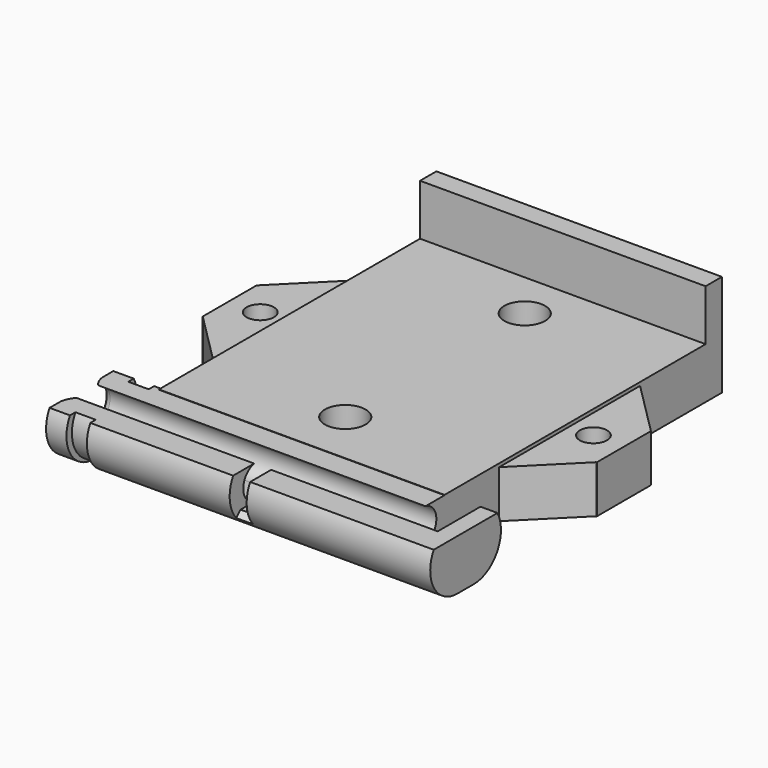
from build123d import *

# Parameters (mm, degrees)
CYLINDER008_R           = 3
CYLINDER008_DEPTH       = 4
CYLINDER009_R           = 2
CYLINDER009_DEPTH       = 11.5
CYLINDER007_R           = 3
CYLINDER007_DEPTH       = 4
CYLINDER006_R           = 2
CYLINDER006_DEPTH       = 11.5
CYLINDER004_R           = 2
CYLINDER004_DEPTH       = 10
CYLINDER005_R           = 3
CYLINDER005_DEPTH       = 7
CYLINDER003_R           = 2
CYLINDER003_DEPTH       = 10
CYLINDER_R              = 3
CYLINDER_DEPTH          = 7
CYLINDER002_R           = 5
CYLINDER002_DEPTH       = 56.5
CYLINDER002_PITCH_ANGLE = 90
BOX011_W                = 42
BOX011_H                = 5
BOX011_DEPTH            = 5
BOX007_W                = 42
BOX007_H                = 48
BOX007_DEPTH            = 7.5
BOX008_W                = 42
BOX008_H                = 3
BOX008_DEPTH            = 15
BOX015_W                = 10
BOX015_H                = 10
BOX015_DEPTH            = 7
BOX014_W                = 10
BOX014_H                = 10
BOX014_DEPTH            = 7
BOX020_W                = 2.5
BOX020_H                = 7.5
BOX020_DEPTH            = 10
BOX020_ROLL_ANGLE       = 45
BOX005_W                = 2.5
BOX005_H                = 5
BOX005_DEPTH            = 10
BOX018_W                = 5
BOX018_H                = 5
BOX018_DEPTH            = 10
BOX019_W                = 58
BOX019_H                = 13
BOX019_DEPTH            = 10
CYLINDER021_W           = 5
CYLINDER021_H           = 3
CYLINDER021_ANGLE       = 180
CYLINDER019_W           = 5
CYLINDER019_H           = 3
CYLINDER019_ANGLE       = 180
CYLINDER017_W           = 2.5
CYLINDER017_H           = 54
CYLINDER017_ANGLE       = 180
CYLINDER016_W           = 5
CYLINDER016_H           = 56.5
CYLINDER016_ANGLE       = 180
BOX017_W                = 5
BOX017_H                = 3
BOX017_DEPTH            = 54
BOX016_W                = 10
BOX016_H                = 3
BOX016_DEPTH            = 56.5
CYLINDER020_W           = 5
CYLINDER020_H           = 3
CYLINDER020_ANGLE       = 180
CYLINDER018_W           = 5
CYLINDER018_H           = 3
CYLINDER018_ANGLE       = 180
CYLINDER014_W           = 2.5
CYLINDER014_H           = 54
CYLINDER014_ANGLE       = 180
CYLINDER015_W           = 5
CYLINDER015_H           = 56.5
CYLINDER015_ANGLE       = 180
FUSION007_PITCH_ANGLE   = 90
FILLET_R                = 1
CHAMFER003_SIZE         = 7.95


with BuildPart() as cylinder011:
    # Cylinder008 → Cylinder008 (new body)
    with BuildSketch(Plane.XY.offset(7.5)):
        Circle(CYLINDER008_R)
    extrude(amount=CYLINDER008_DEPTH)


with BuildPart() as bolt_hole4:
    # Cylinder009 → Cylinder009 (new body)
    with BuildSketch(Plane.XY):
        Circle(CYLINDER009_R)
    extrude(amount=CYLINDER009_DEPTH)

    # Fusion004: union Cylinder011
    add(cylinder011.part)


with BuildPart() as bolt_hole4_1:
    # Fusion004 placement: moved
    add(bolt_hole4.part.moved(Location((28, 45, -9))))


with BuildPart() as cylinder008:
    # Cylinder007 → Cylinder007 (new body)
    with BuildSketch(Plane.XY.offset(7.5)):
        Circle(CYLINDER007_R)
    extrude(amount=CYLINDER007_DEPTH)


with BuildPart() as bolt_hole3:
    # Cylinder006 → Cylinder006 (new body)
    with BuildSketch(Plane.XY):
        Circle(CYLINDER006_R)
    extrude(amount=CYLINDER006_DEPTH)

    # Fusion003: union Cylinder008
    add(cylinder008.part)


with BuildPart() as bolt_hole3_1:
    # Fusion003 placement: moved
    add(bolt_hole3.part.moved(Location((28, 12, -9))))


with BuildPart() as cylinder006:
    # Cylinder004 → Cylinder004 (new body)
    with BuildSketch(Plane.XY):
        Circle(CYLINDER004_R)
    extrude(amount=CYLINDER004_DEPTH)


with BuildPart() as bolt_hole2:
    # Cylinder005 → Cylinder005 (new body)
    with BuildSketch(Plane.XY):
        Circle(CYLINDER005_R)
    extrude(amount=CYLINDER005_DEPTH)

    # Fusion002: union Cylinder006
    add(cylinder006.part)


with BuildPart() as bolt_hole2_1:
    # Fusion002 placement: moved
    add(bolt_hole2.part.moved(Location((52.5, 27, -8))))


with BuildPart() as cylinder001:
    # Cylinder003 → Cylinder003 (new body)
    with BuildSketch(Plane.XY):
        Circle(CYLINDER003_R)
    extrude(amount=CYLINDER003_DEPTH)


with BuildPart() as bolt_hole1:
    # Cylinder → Cylinder (new body)
    with BuildSketch(Plane.XY):
        Circle(CYLINDER_R)
    extrude(amount=CYLINDER_DEPTH)

    # Fusion001: union Cylinder001
    add(cylinder001.part)


with BuildPart() as bolt_hole1_1:
    # Fusion001 placement: moved
    add(bolt_hole1.part.moved(Location((3.5, 27, -8))))


with BuildPart() as cable_tunnel_outer_shell:
    # Cylinder002 → Cylinder002 (new body)
    with BuildSketch(Plane.XY):
        Circle(CYLINDER002_R)
    extrude(amount=CYLINDER002_DEPTH)


with BuildPart() as cable_tunnel_outer_shell_1:
    # Cylinder002 pitch: moved
    add(cable_tunnel_outer_shell.part.rotate(Axis((0, 0, 0), (0, 1, 0)), CYLINDER002_PITCH_ANGLE))


with BuildPart() as cable_tunnel_outer_shell_2:
    # Cylinder002 placement: moved
    add(cable_tunnel_outer_shell_1.part)


with BuildPart() as fill_cut1:
    # Box011 → Box011 (new body)
    with BuildSketch(Plane(origin=(7, 0, -5), x_dir=(1, 0, 0), z_dir=(0, 0, 1))):
        with Locations((21, 2.5)):
            Rectangle(BOX011_W, BOX011_H)
    extrude(amount=BOX011_DEPTH)

    # Cut: cut cable-tunnel-outer-shell
    add(cable_tunnel_outer_shell_2.part, mode=Mode.SUBTRACT)


with BuildPart() as base_plate1:
    # Box007 → Box007 (new body)
    with BuildSketch(Plane(origin=(7, 4, -5), x_dir=(1, 0, 0), z_dir=(0, 0, 1))):
        with Locations((21, 24)):
            Rectangle(BOX007_W, BOX007_H)
    extrude(amount=BOX007_DEPTH)


with BuildPart() as nema17_support:
    # Box008 → Box008 (new body)
    with BuildSketch(Plane(origin=(7, 52, -5), x_dir=(1, 0, 0), z_dir=(0, 0, 1))):
        with Locations((21, 1.5)):
            Rectangle(BOX008_W, BOX008_H)
    extrude(amount=BOX008_DEPTH)


with BuildPart() as hold2:
    # Box015 → Box015 (new body)
    with BuildSketch(Plane(origin=(47, 22, -5), x_dir=(1, 0, 0), z_dir=(0, 0, 1))):
        with Locations((5, 5)):
            Rectangle(BOX015_W, BOX015_H)
    extrude(amount=BOX015_DEPTH)


with BuildPart() as hold1:
    # Box014 → Box014 (new body)
    with BuildSketch(Plane(origin=(-1, 22, -5), x_dir=(1, 0, 0), z_dir=(0, 0, 1))):
        with Locations((5, 5)):
            Rectangle(BOX014_W, BOX014_H)
    extrude(amount=BOX014_DEPTH)


with BuildPart() as cut_endstop_cable45:
    # Box020 → Box020 (new body)
    with BuildSketch(Plane.XY):
        with Locations((1.25, 3.75)):
            Rectangle(BOX020_W, BOX020_H)
    extrude(amount=BOX020_DEPTH)


with BuildPart() as cut_endstop_cable45_1:
    # Box020 roll: moved
    add(cut_endstop_cable45.part.rotate(Axis((0, 0, 0), (1, 0, 0)), BOX020_ROLL_ANGLE))


with BuildPart() as cut_endstop_cable45_2:
    # Box020 placement: moved
    add(cut_endstop_cable45_1.part.moved(Location((27, -8, -4.5))))


with BuildPart() as cut_endstop_cable:
    # Box005 → Box005 (new body)
    with BuildSketch(Plane(origin=(27, -8, -2.5), x_dir=(1, 0, 0), z_dir=(0, 0, 1))):
        with Locations((1.25, 2.5)):
            Rectangle(BOX005_W, BOX005_H)
    extrude(amount=BOX005_DEPTH)


with BuildPart() as cut_cable_drop:
    # Box018 → Box018 (new body)
    with BuildSketch(Plane(origin=(49, 0, -2.5), x_dir=(1, 0, 0), z_dir=(0, 0, 1))):
        with Locations((2.5, 2.5)):
            Rectangle(BOX018_W, BOX018_H)
    extrude(amount=BOX018_DEPTH)


with BuildPart() as cut_open:
    # Box019 → Box019 (new body)
    with BuildSketch(Plane(origin=(-1, -8, 2.45), x_dir=(1, 0, 0), z_dir=(0, 0, 1))):
        with Locations((29, 6.5)):
            Rectangle(BOX019_W, BOX019_H)
    extrude(amount=BOX019_DEPTH)


with BuildPart() as obj1:
    # Cylinder021 → Cylinder021 (revolve)
    with BuildSketch(Plane(origin=(0, 1, 3), x_dir=(-1, 0, 0), z_dir=(0, 1, 0))):
        with Locations((2.5, 1.5)):
            Rectangle(CYLINDER021_W, CYLINDER021_H)
    revolve(axis=Axis((0, 1, 3), (0, 0, 1)), revolution_arc=CYLINDER021_ANGLE)


with BuildPart() as obj2:
    # Cylinder019 → Cylinder019 (revolve)
    with BuildSketch(Plane(origin=(0, 0, 3), x_dir=(-1, 0, 0), z_dir=(0, 1, 0))):
        with Locations((2.5, 1.5)):
            Rectangle(CYLINDER019_W, CYLINDER019_H)
    revolve(axis=Axis((0, 0, 3), (0, 0, 1)), revolution_arc=CYLINDER019_ANGLE)

    # Cut014: cut obj1
    add(obj1.part, mode=Mode.SUBTRACT)


with BuildPart() as cable_tunnel_inner_upper:
    # Cylinder017 → Cylinder017 (revolve)
    with BuildSketch(Plane(origin=(0, 0, 0), x_dir=(-1, 0, 0), z_dir=(0, 1, 0))):
        with Locations((1.25, 27)):
            Rectangle(CYLINDER017_W, CYLINDER017_H)
    revolve(axis=Axis((0, 0, 0), (0, 0, 1)), revolution_arc=CYLINDER017_ANGLE)


with BuildPart() as cable_tunnel_upper:
    # Cylinder016 → Cylinder016 (revolve)
    with BuildSketch(Plane(origin=(0, 0, 0), x_dir=(-1, 0, 0), z_dir=(0, 1, 0))):
        with Locations((2.5, 28.25)):
            Rectangle(CYLINDER016_W, CYLINDER016_H)
    revolve(axis=Axis((0, 0, 0), (0, 0, 1)), revolution_arc=CYLINDER016_ANGLE)

    # Cut018: cut cable-tunnel-inner-upper
    add(cable_tunnel_inner_upper.part, mode=Mode.SUBTRACT)

    # Cut019: cut obj2
    add(obj2.part, mode=Mode.SUBTRACT)


with BuildPart() as cable_tunnel_upper_1:
    # Cut019 placement: moved
    add(cable_tunnel_upper.part.moved(Location((0, -3, 0))))


with BuildPart() as cable_tunnel_middle_inner:
    # Box017 → Box017 (new body)
    with BuildSketch(Plane(origin=(-2.5, -3, 0), x_dir=(1, 0, 0), z_dir=(0, 0, 1))):
        with Locations((2.5, 1.5)):
            Rectangle(BOX017_W, BOX017_H)
    extrude(amount=BOX017_DEPTH)


with BuildPart() as cable_tunnel_middle:
    # Box016 → Box016 (new body)
    with BuildSketch(Plane(origin=(-5, -3, 0), x_dir=(1, 0, 0), z_dir=(0, 0, 1))):
        with Locations((5, 1.5)):
            Rectangle(BOX016_W, BOX016_H)
    extrude(amount=BOX016_DEPTH)

    # Cut020: cut cable-tunnel-middle-inner
    add(cable_tunnel_middle_inner.part, mode=Mode.SUBTRACT)


with BuildPart() as obj3:
    # Cylinder020 → Cylinder020 (revolve)
    with BuildSketch(Plane(origin=(0, -1, 3), x_dir=(1, 0, 0), z_dir=(0, -1, 0))):
        with Locations((2.5, 1.5)):
            Rectangle(CYLINDER020_W, CYLINDER020_H)
    revolve(axis=Axis((0, -1, 3), (0, 0, 1)), revolution_arc=CYLINDER020_ANGLE)


with BuildPart() as obj4:
    # Cylinder018 → Cylinder018 (revolve)
    with BuildSketch(Plane(origin=(0, 0, 3), x_dir=(1, 0, 0), z_dir=(0, -1, 0))):
        with Locations((2.5, 1.5)):
            Rectangle(CYLINDER018_W, CYLINDER018_H)
    revolve(axis=Axis((0, 0, 3), (0, 0, 1)), revolution_arc=CYLINDER018_ANGLE)

    # Cut015: cut obj3
    add(obj3.part, mode=Mode.SUBTRACT)


with BuildPart() as cable_tunnel_inner_lower:
    # Cylinder014 → Cylinder014 (revolve)
    with BuildSketch(Plane.XZ):
        with Locations((1.25, 27)):
            Rectangle(CYLINDER014_W, CYLINDER014_H)
    revolve(axis=Axis((0, 0, 0), (0, 0, 1)), revolution_arc=CYLINDER014_ANGLE)


with BuildPart() as holder_with_cable_tunnel:
    # Cylinder015 → Cylinder015 (revolve)
    with BuildSketch(Plane.XZ):
        with Locations((2.5, 28.25)):
            Rectangle(CYLINDER015_W, CYLINDER015_H)
    revolve(axis=Axis((0, 0, 0), (0, 0, 1)), revolution_arc=CYLINDER015_ANGLE)

    # Cut016: cut cable-tunnel-inner-lower
    add(cable_tunnel_inner_lower.part, mode=Mode.SUBTRACT)

    # Cut017: cut obj4
    add(obj4.part, mode=Mode.SUBTRACT)

    # Fusion007: union cable-tunnel-upper, cable-tunnel-middle
    add(cable_tunnel_upper_1.part)
    add(cable_tunnel_middle.part)


with BuildPart() as holder_with_cable_tunnel_1:
    # Fusion007 pitch: moved
    add(holder_with_cable_tunnel.part.rotate(Axis((0, 0, 0), (0, 1, 0)), FUSION007_PITCH_ANGLE))


with BuildPart() as holder_with_cable_tunnel_2:
    # Fusion007 placement: moved
    add(holder_with_cable_tunnel_1.part)

    # Cut021: cut cut-open
    add(cut_open.part, mode=Mode.SUBTRACT)

    # Cut022: cut cut-cable-drop
    add(cut_cable_drop.part, mode=Mode.SUBTRACT)

    # Cut023: cut cut-endstop-cable
    add(cut_endstop_cable.part, mode=Mode.SUBTRACT)

    # Cut024: cut cut-endstop-cable45
    add(cut_endstop_cable45_2.part, mode=Mode.SUBTRACT)

    # Fillet
    fillet_edges = [holder_with_cable_tunnel_2.edges().sort_by_distance(p)[0] for p in [
        (0, -5.487469, -0.25),
        (0, -1.5, -2.5),
        (0, 2.487469, -0.25),
    ]]
    fillet(fillet_edges, radius=FILLET_R)

    # Fusion008: union fill-cut1, base-plate1, nema17-support, hold2, hold1
    add(fill_cut1.part)
    add(base_plate1.part)
    add(nema17_support.part)
    add(hold2.part)
    add(hold1.part)

    # Cut025: cut bolt-hole1
    add(bolt_hole1_1.part, mode=Mode.SUBTRACT)

    # Cut026: cut bolt-hole2
    add(bolt_hole2_1.part, mode=Mode.SUBTRACT)

    # Cut027: cut bolt-hole3
    add(bolt_hole3_1.part, mode=Mode.SUBTRACT)

    # Cut028: cut bolt-hole4
    add(bolt_hole4_1.part, mode=Mode.SUBTRACT)

    # Chamfer003
    chamfer003_edges = [holder_with_cable_tunnel_2.edges().sort_by_distance(p)[0] for p in [
        (7, 22, -1.5),
        (7, 32, -1.5),
        (49, 32, -1.5),
        (49, 22, -1.5),
    ]]
    chamfer(chamfer003_edges, length=CHAMFER003_SIZE)


solid = holder_with_cable_tunnel_2.part
